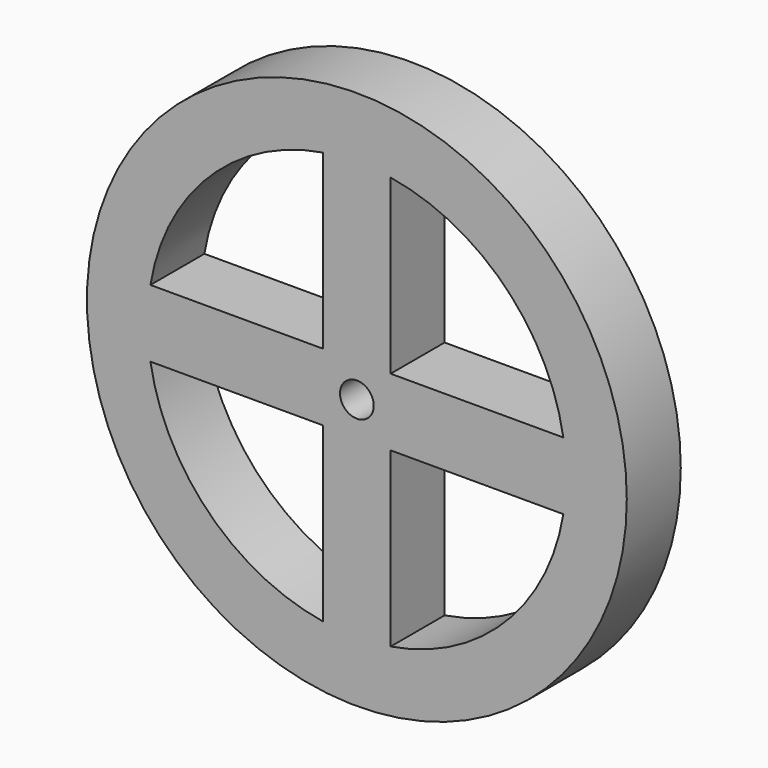
from build123d import *

# Parameters (mm, degrees)
F0_R     = 40
F0_R_2   = 2.5
F1_DEPTH = 10


with BuildPart() as f1:
    # F0 (on Front) → F1 (new body)
    with BuildSketch(Plane.XZ):
        Circle(F0_R)
        with BuildLine():
            Line((-5.59017, -5), (-5, -5))
            Line((-5, -5), (-5, -5.59017))
            Line((-5, -5.59017), (-5, -30.594117))
            ThreePointArc((-5, -30.594117), (-21.92031, -21.92031), (-30.594117, -5))
            Line((-30.594117, -5), (-5.59017, -5))
        make_face(mode=Mode.SUBTRACT)
        with BuildLine():
            Line((5, -5.59017), (5, -5))
            Line((5, -5), (5.59017, -5))
            Line((5.59017, -5), (30.594117, -5))
            ThreePointArc((30.594117, -5), (21.92031, -21.92031), (5, -30.594117))
            Line((5, -30.594117), (5, -5.59017))
        make_face(mode=Mode.SUBTRACT)
        with BuildLine():
            ThreePointArc((-30.594117, 5), (-21.92031, 21.92031), (-5, 30.594117))
            Line((-5, 30.594117), (-5, 5.59017))
            Line((-5, 5.59017), (-5, 5))
            Line((-5, 5), (-5.59017, 5))
            Line((-5.59017, 5), (-30.594117, 5))
        make_face(mode=Mode.SUBTRACT)
        Circle(F0_R_2, mode=Mode.SUBTRACT)
        with BuildLine():
            Line((30.594117, 5), (5.59017, 5))
            Line((5.59017, 5), (5, 5))
            Line((5, 5), (5, 5.59017))
            Line((5, 5.59017), (5, 30.594117))
            ThreePointArc((5, 30.594117), (21.92031, 21.92031), (30.594117, 5))
        make_face(mode=Mode.SUBTRACT)
    extrude(amount=F1_DEPTH)


solid = f1.part
